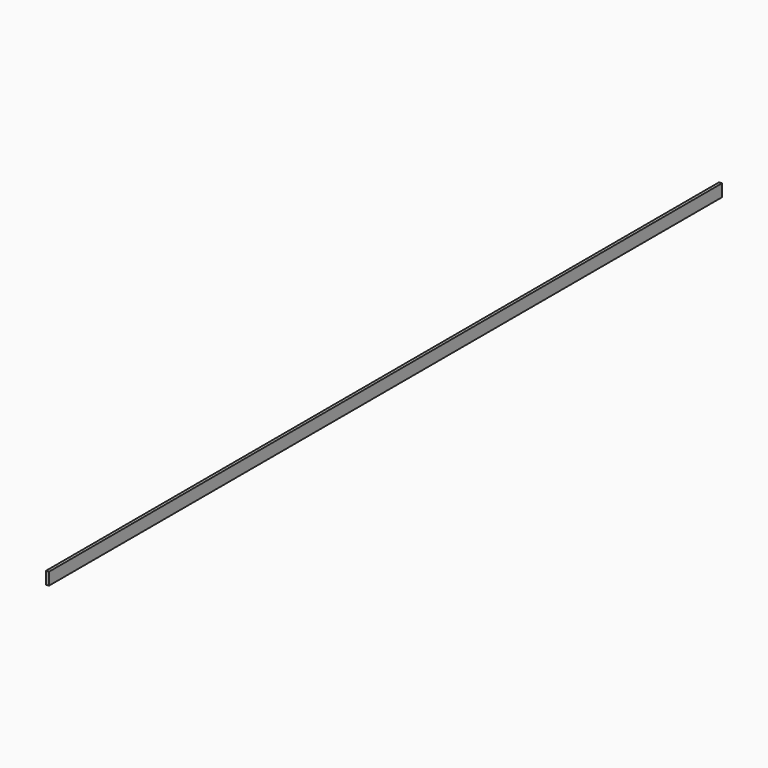
from build123d import *

# Parameters (mm, degrees)
SKETCH_W  = 1.38
SKETCH_H  = 6
PAD_DEPTH = 410


with BuildPart() as part:
    # Sketch → Pad (new body)
    with BuildSketch(Plane.XZ):
        with Locations((0.69, 3)):
            Rectangle(SKETCH_W, SKETCH_H)
    extrude(amount=PAD_DEPTH)


solid = part.part
